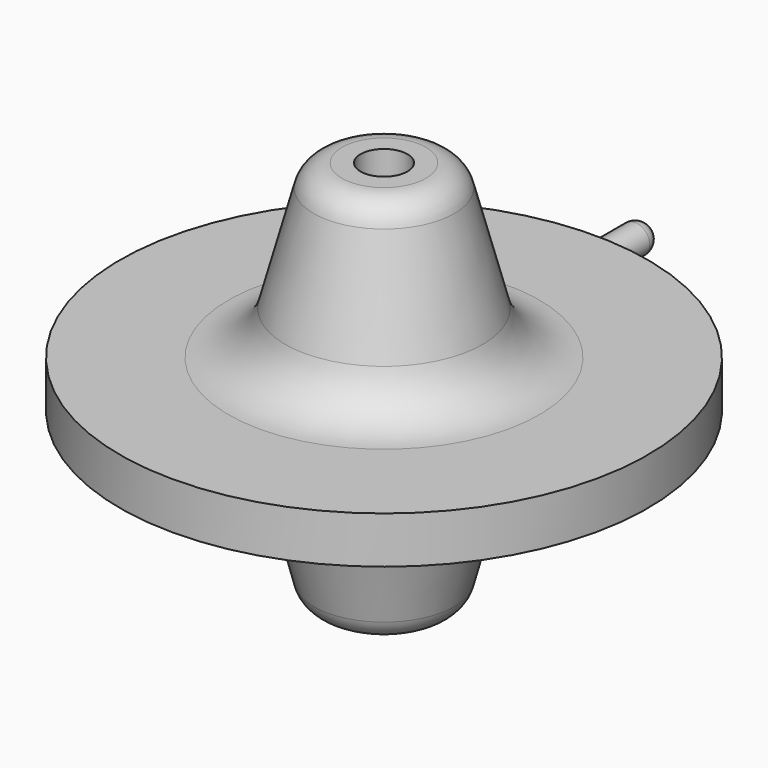
from build123d import *

# Parameters (mm, degrees)
F2_W = 15.708493
F2_H = 2.5
F4_R = 2.5


with BuildPart() as f1:
    # F0 (on Right) → F1 (revolve)
    with BuildSketch(Plane.YZ):
        with BuildLine():
            Line((-45, 4), (-45, 0))
            Line((-45, 0), (-45, -4))
            Line((-45, -4), (-26.497386, -4))
            ThreePointArc((-26.497386, -4), (-20.409772, -6.066467), (-16.838128, -11.41181))
            Line((-16.838128, -11.41181), (-11.992994, -29.494095))
            ThreePointArc((-11.992994, -29.494095), (-10.207172, -32.166767), (-7.163365, -33.2))
            Line((-7.163365, -33.2), (-4, -33.2))
            Line((-4, -33.2), (-4, 33.2))
            Line((-4, 33.2), (-7.163365, 33.2))
            ThreePointArc((-7.163365, 33.2), (-10.207172, 32.166767), (-11.992994, 29.494095))
            Line((-11.992994, 29.494095), (-16.838128, 11.41181))
            ThreePointArc((-16.838128, 11.41181), (-20.409772, 6.066467), (-26.497386, 4))
            Line((-26.497386, 4), (-45, 4))
        make_face()
    revolve(axis=Axis((0, 0, 0.106538), (0, 0, -1)))

    # F2 (on Right) → F3 (revolve)
    with BuildSketch(Plane.YZ):
        with Locations((48.145753, 1.25)):
            Rectangle(F2_W, F2_H)
    revolve(axis=Axis((0, 48.145753, 0), (0, 1, 0)))

    # F4
    f4_edges = [f1.edges().sort_by_distance(p)[0] for p in [
        (0, 56, -2.5),
    ]]
    fillet(f4_edges, radius=F4_R)


solid = f1.part
